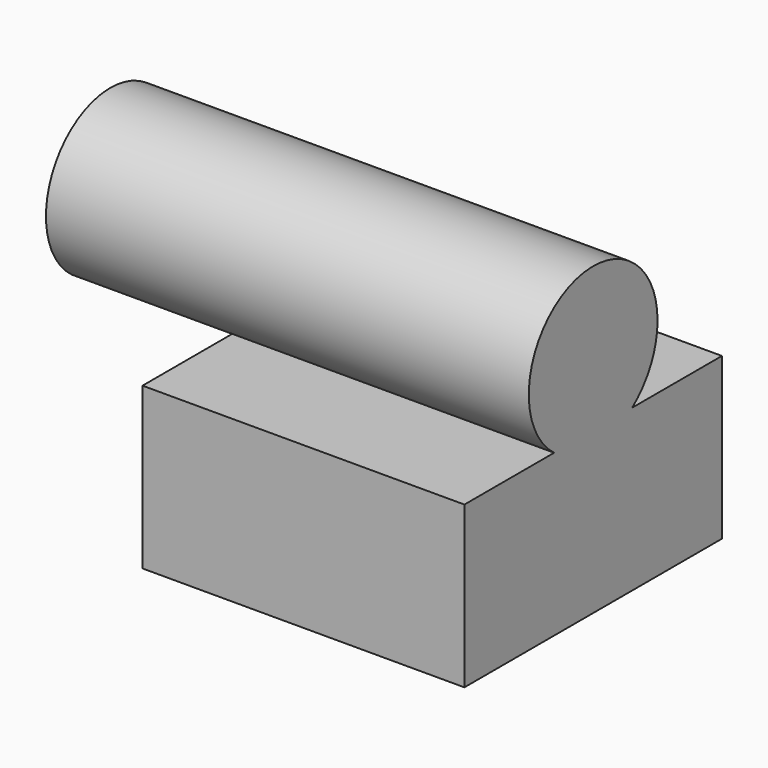
from build123d import *

# Parameters (mm, degrees)
F0_W     = 20
F0_H     = 20
F1_DEPTH = 10
F2_R     = 5
F3_DEPTH = 30


with BuildPart() as f1:
    # F0 (on Top) → F1 (new body)
    with BuildSketch(Plane.XY):
        Rectangle(F0_W, F0_H)
    extrude(amount=F1_DEPTH)

    # F2 (on face) → F3 (join)
    with BuildSketch(Plane.YZ.offset(10)):
        with Locations((0, 13.975238)):
            Circle(F2_R)
    extrude(amount=-F3_DEPTH)


solid = f1.part
